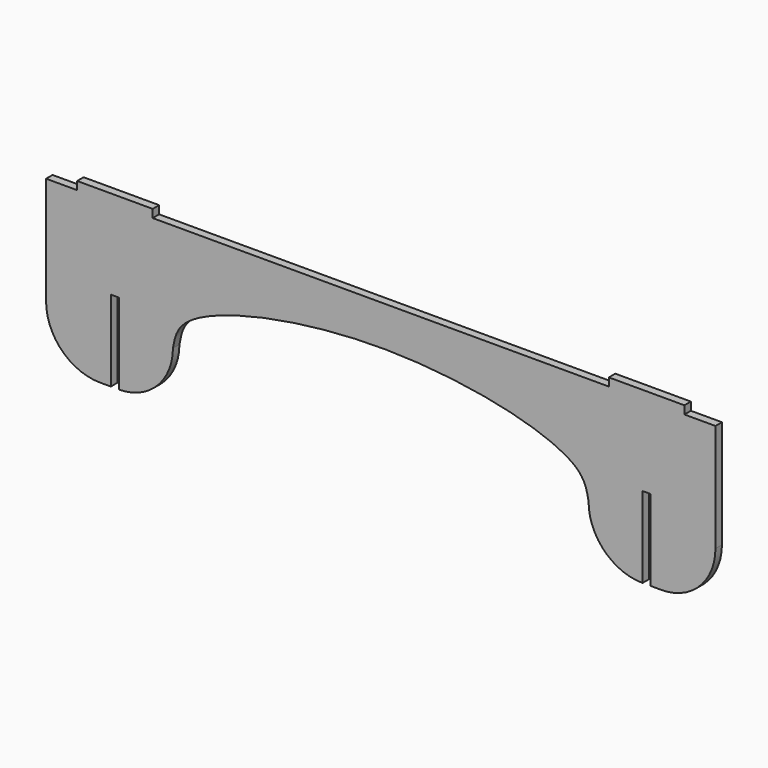
from build123d import *

# Parameters (mm, degrees)
F1_DEPTH = 15


with BuildPart() as f1:
    # F0 (on Front) → F1 (new body)
    with BuildSketch(Plane.XZ):
        with BuildLine():
            Line((-562.4999962747, 150), (-619.9999962747, 150))
            Line((-619.9999962747, 150), (-619.9999962747, -50))
            ThreePointArc((-619.9999962747, -50), (-590.7106743934, -120.7106781187), (-519.9999962747, -150))
            Line((-519.9999962747, -150), (-499.9999962747, -150))
            Line((-499.9999962747, -150), (-499.9999962747, 0))
            Line((-499.9999962747, 0), (-484.9999962747, 0))
            Line((-484.9999962747, 0), (-484.9999962747, -150))
            ThreePointArc((-484.9999962747, -150), (-414.2893181561, -120.7106781187), (-384.9999962747, -50))
            add(Edge.make_bspline(
                [(-384.9999962747, -50), (-382.0572340786, -33.017525677), (-371.5647129158, 27.5340783447), (-1.601e-07, 110.9436321668), (371.5647207222, 27.5340787999), (382.0572416235, -33.0175256718), (385.0000037253, -50)],
                knots=[0, 0, 0, 0, 0.1402314153, 0.4999999982, 0.8597685847, 1, 1, 1, 1], degree=3))
            ThreePointArc((385.0000037253, -50), (414.2893256066, -120.7106781187), (485.0000037253, -150))
            Line((485.0000037253, -150), (485.0000037253, 0))
            Line((485.0000037253, 0), (500.0000037253, 0))
            Line((500.0000037253, 0), (500.0000037253, -150))
            Line((500.0000037253, -150), (520.0000037253, -150))
            ThreePointArc((520.0000037253, -150), (590.7106818439, -120.7106781187), (620.0000037253, -50))
            Line((620.0000037253, -50), (620.0000037253, 150))
            Line((620.0000037253, 150), (562.5000037253, 150))
            Line((562.5000037253, 150), (562.5000037253, 165))
            Line((562.5000037253, 165), (422.5000037253, 165))
            Line((422.5000037253, 165), (422.5000037253, 150))
            Line((422.5000037253, 150), (-422.4999962747, 150))
            Line((-422.4999962747, 150), (-422.4999962747, 165))
            Line((-422.4999962747, 165), (-562.4999962747, 165))
            Line((-562.4999962747, 165), (-562.4999962747, 150))
        make_face()
    extrude(amount=F1_DEPTH)


solid = f1.part
